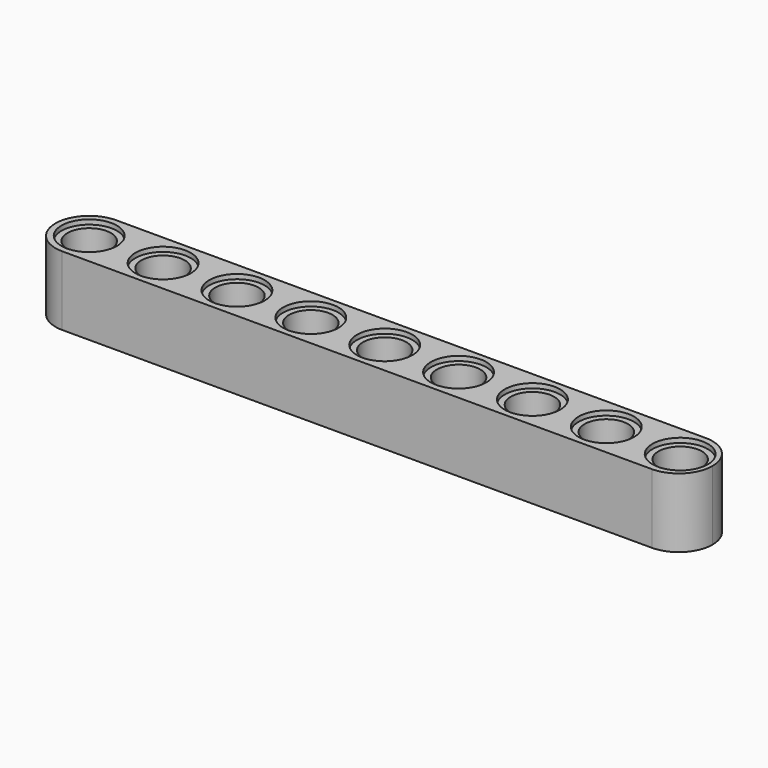
from build123d import *

# Parameters (mm, degrees)
F0_R     = 3
F1_DEPTH = 7.5
F0_R_2   = 2.35
F2_DEPTH = 7
F3_DEPTH = 0.5
F4_DEPTH = 7
F5_DEPTH = 0.5


with BuildPart() as f1:
    # F0 (on Top) → F1 (new body)
    with BuildSketch(Plane.XY):
        with BuildLine():
            ThreePointArc((-61.751105, -13.001984), (-60.682045, -15.582924), (-58.101105, -16.651984))
            Line((-58.101105, -16.651984), (5.748895, -16.651984))
            ThreePointArc((5.748895, -16.651984), (8.329835, -15.582924), (9.398895, -13.001984))
            ThreePointArc((9.398895, -13.001984), (8.329835, -10.421045), (5.748895, -9.351984))
            Line((5.748895, -9.351984), (-58.101105, -9.351984))
            ThreePointArc((-58.101105, -9.351984), (-60.682045, -10.421045), (-61.751105, -13.001984))
        make_face()
        with Locations((-58.101105, -13.001984)):
            Circle(F0_R, mode=Mode.SUBTRACT)
        with Locations((-50.101105, -13.001984)):
            Circle(F0_R, mode=Mode.SUBTRACT)
        with Locations((-42.101105, -13.001984)):
            Circle(F0_R, mode=Mode.SUBTRACT)
        with Locations((-34.101105, -13.001984)):
            Circle(F0_R, mode=Mode.SUBTRACT)
        with Locations((-26.101105, -13.001984)):
            Circle(F0_R, mode=Mode.SUBTRACT)
        with Locations((-18.101105, -13.001984)):
            Circle(F0_R, mode=Mode.SUBTRACT)
        with Locations((-10.101105, -13.001984)):
            Circle(F0_R, mode=Mode.SUBTRACT)
        with Locations((-2.101105, -13.001984)):
            Circle(F0_R, mode=Mode.SUBTRACT)
        with Locations((5.898895, -13.001984)):
            Circle(F0_R, mode=Mode.SUBTRACT)
    extrude(amount=F1_DEPTH)

    # F0 (on Top) → F2 (join)
    with BuildSketch(Plane.XY):
        with Locations((5.898895, -13.001984)):
            Circle(F0_R)
        with Locations((5.898895, -13.001984)):
            Circle(F0_R_2, mode=Mode.SUBTRACT)
    extrude(amount=F2_DEPTH)

    # F0 (on Top) → F3 (cut)
    with BuildSketch(Plane.XY):
        with Locations((5.898895, -13.001984)):
            Circle(F0_R)
        with Locations((5.898895, -13.001984)):
            Circle(F0_R_2, mode=Mode.SUBTRACT)
    extrude(amount=F3_DEPTH, mode=Mode.SUBTRACT)

    # F0 (on Top) → F4 (join)
    with BuildSketch(Plane.XY):
        with Locations((-58.101105, -13.001984)):
            Circle(F0_R)
        with Locations((-58.101105, -13.001984)):
            Circle(F0_R_2, mode=Mode.SUBTRACT)
        with Locations((-50.101105, -13.001984)):
            Circle(F0_R)
        with Locations((-50.101105, -13.001984)):
            Circle(F0_R_2, mode=Mode.SUBTRACT)
        with Locations((-42.101105, -13.001984)):
            Circle(F0_R)
        with Locations((-42.101105, -13.001984)):
            Circle(F0_R_2, mode=Mode.SUBTRACT)
        with Locations((-34.101105, -13.001984)):
            Circle(F0_R)
        with Locations((-34.101105, -13.001984)):
            Circle(F0_R_2, mode=Mode.SUBTRACT)
        with Locations((-26.101105, -13.001984)):
            Circle(F0_R)
        with Locations((-26.101105, -13.001984)):
            Circle(F0_R_2, mode=Mode.SUBTRACT)
        with Locations((-18.101105, -13.001984)):
            Circle(F0_R)
        with Locations((-18.101105, -13.001984)):
            Circle(F0_R_2, mode=Mode.SUBTRACT)
        with Locations((-10.101105, -13.001984)):
            Circle(F0_R)
        with Locations((-10.101105, -13.001984)):
            Circle(F0_R_2, mode=Mode.SUBTRACT)
        with Locations((-2.101105, -13.001984)):
            Circle(F0_R)
        with Locations((-2.101105, -13.001984)):
            Circle(F0_R_2, mode=Mode.SUBTRACT)
    extrude(amount=F4_DEPTH)

    # F0 (on Top) → F5 (cut)
    with BuildSketch(Plane.XY):
        with Locations((-58.101105, -13.001984)):
            Circle(F0_R)
        with Locations((-58.101105, -13.001984)):
            Circle(F0_R_2, mode=Mode.SUBTRACT)
        with Locations((-50.101105, -13.001984)):
            Circle(F0_R)
        with Locations((-50.101105, -13.001984)):
            Circle(F0_R_2, mode=Mode.SUBTRACT)
        with Locations((-42.101105, -13.001984)):
            Circle(F0_R)
        with Locations((-42.101105, -13.001984)):
            Circle(F0_R_2, mode=Mode.SUBTRACT)
        with Locations((-34.101105, -13.001984)):
            Circle(F0_R)
        with Locations((-34.101105, -13.001984)):
            Circle(F0_R_2, mode=Mode.SUBTRACT)
        with Locations((-26.101105, -13.001984)):
            Circle(F0_R_2)
        with Locations((-18.101105, -13.001984)):
            Circle(F0_R)
        with Locations((-18.101105, -13.001984)):
            Circle(F0_R_2, mode=Mode.SUBTRACT)
        with Locations((-10.101105, -13.001984)):
            Circle(F0_R)
        with Locations((-10.101105, -13.001984)):
            Circle(F0_R_2, mode=Mode.SUBTRACT)
        with Locations((-2.101105, -13.001984)):
            Circle(F0_R)
        with Locations((-2.101105, -13.001984)):
            Circle(F0_R_2, mode=Mode.SUBTRACT)
        with Locations((-26.101105, -13.001984)):
            Circle(F0_R)
        with Locations((-26.101105, -13.001984)):
            Circle(F0_R_2, mode=Mode.SUBTRACT)
    extrude(amount=F5_DEPTH, mode=Mode.SUBTRACT)


solid = f1.part
